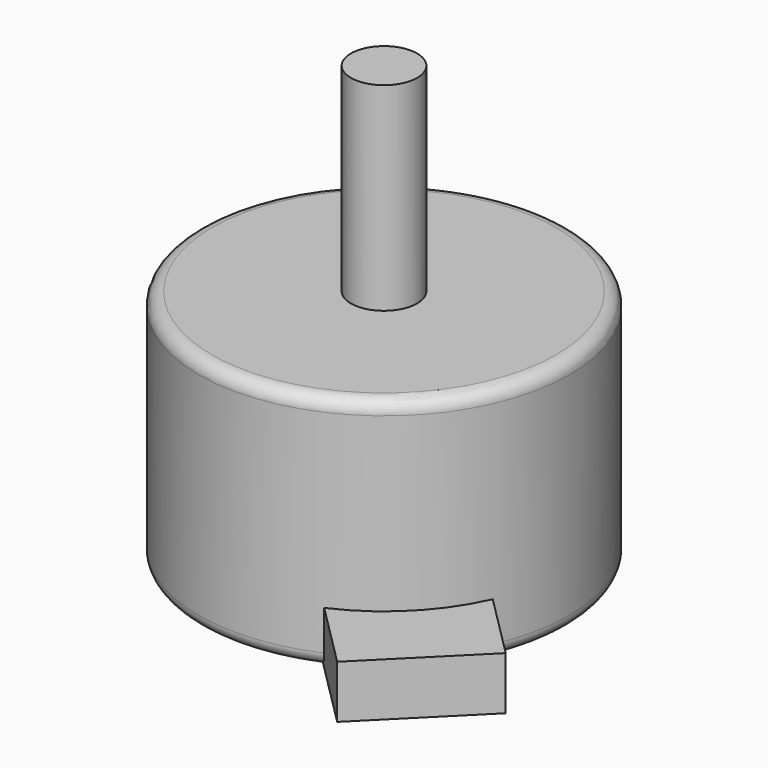
from build123d import *

# Parameters (mm, degrees)
F3_D      = 1.5
F3_DEPTH  = 8
F3_TIP    = 0.4506454643
F7_W      = 9
F7_H      = 4
F8_DEPTH  = 5
F10_D     = 8
F10_DEPTH = 1
F10_START = 0.5630689
F10_TIP   = 2.4034424761


with BuildPart() as f1:
    # F0 (on Front) → F1 (revolve)
    with BuildSketch(Plane.XZ):
        with BuildLine():
            Line((0, 33), (0, 0))
            Line((0, 0), (13, 0))
            ThreePointArc((13, 0), (13.7071067812, 0.2928932188), (14, 1))
            Line((14, 1), (14, 17))
            ThreePointArc((14, 17), (13.7071067812, 17.7071067812), (13, 18))
            Line((13, 18), (2.5, 18))
            Line((2.5, 18), (2.5, 33))
            Line((2.5, 33), (0, 33))
        make_face()
    revolve(axis=Axis((0, 0, 16.5), (0, 0, -1)))

    # F3
    with Locations(Plane(origin=(0, 0, 0), x_dir=(1, 0, 0), z_dir=(0, 0, -1))):
        with Locations((0, 8), (-9.5, 0), (0, -8), (9.5, 0)):
            Hole(F3_D / 2, depth=F3_DEPTH)
            with Locations((0, 0, -(F3_DEPTH + F3_TIP / 2))):  # 118° drill point
                Cone(0, F3_D / 2, F3_TIP, mode=Mode.SUBTRACT)

    # F7 (on 3pt) → F8 (join, symmetric)
    with BuildSketch(Plane(origin=(0, 0, 0), x_dir=(-0.7071067812, 0.7071067812, 0), z_dir=(0.7071067812, 0.7071067812, 0))):
        with Locations((-15.5, 2)):
            Rectangle(F7_W, F7_H)
    extrude(amount=F8_DEPTH, both=True)

    # F10
    # its depths count from where the whole tool has entered the part; down to there all is cleared
    with Locations(Plane(origin=(0, 0, 0), x_dir=(1, 0, 0), z_dir=(0, 0, -1)).offset(-F10_START)):
        with Locations((-7, 7), (-7, -7), (7, -7)):
            Hole(F10_D / 2, depth=F10_DEPTH)
            with Locations((0, 0, -(F10_DEPTH + F10_TIP / 2))):  # 118° drill point
                Cone(0, F10_D / 2, F10_TIP, mode=Mode.SUBTRACT)


solid = f1.part
